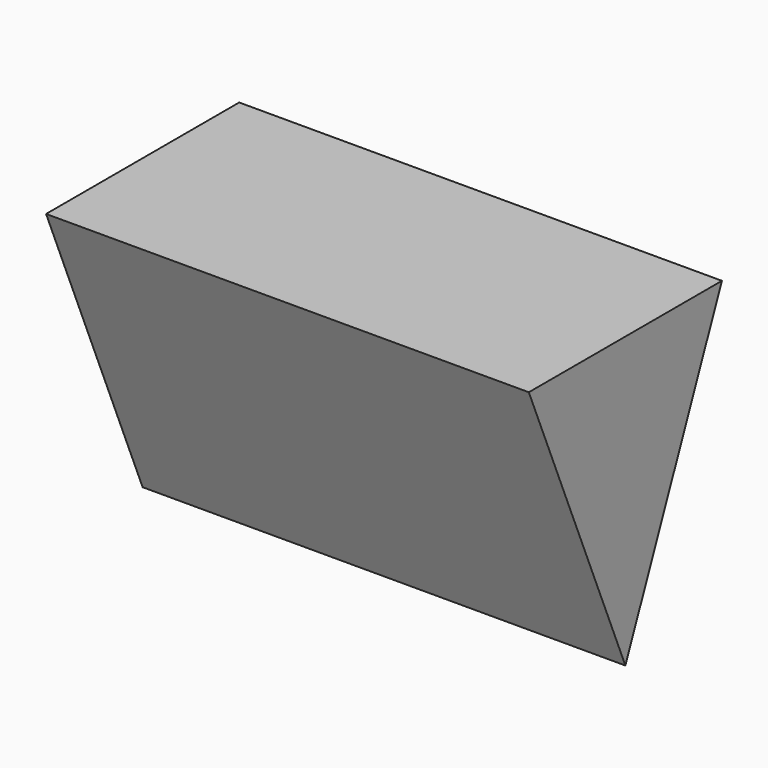
from build123d import *

# Parameters (mm, degrees)
F1_DEPTH = 12.7
F2_DEPTH = 12.7


with BuildPart() as f1:
    # F0 (on Right) → F1 (new body)
    with BuildSketch(Plane.YZ):
        Polygon((6.35, 0), (0, 0), (-6.35, 0), (0, -15.24), align=None)
    extrude(amount=F1_DEPTH)

    # F1_face (on face) → F2 (join)
    with BuildSketch(Plane(origin=(0, 0, -5.08), x_dir=(0, 1, 0), z_dir=(-1, 0, 0))):
        Polygon((-6.35, -5.08), (6.35, -5.08), (0, 10.16), align=None)
    extrude(amount=F2_DEPTH)


solid = f1.part
